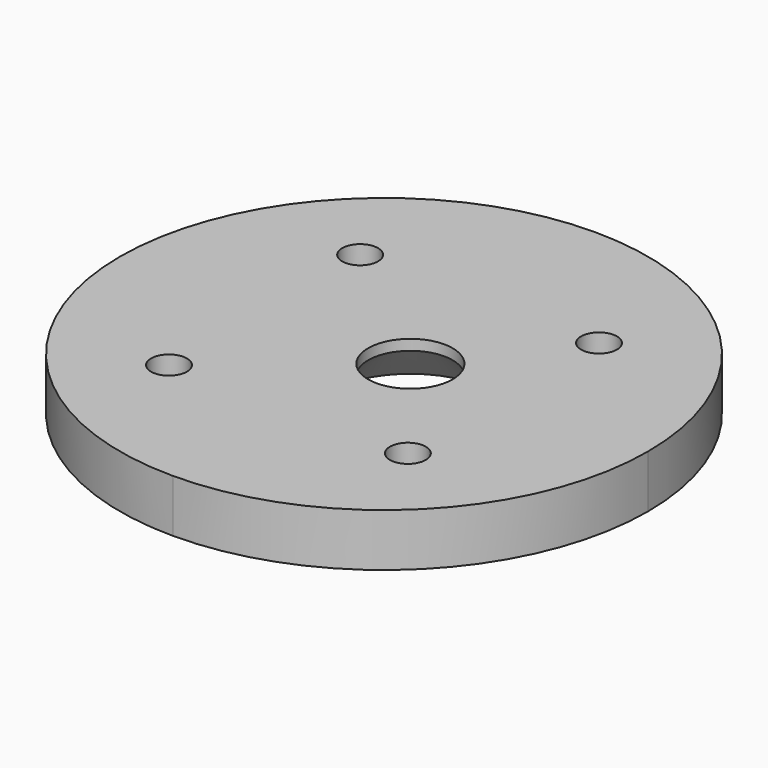
from build123d import *

# Parameters (mm, degrees)
SKETCH_R             = 1.7
PAD_DEPTH            = 5
SKETCH_MIRRORED_2_R  = 1.7
PAD_MIRRORED_2_DEPTH = 5


with BuildPart() as part:
    # Sketch → Pad (new body)
    with BuildSketch(Plane.XY):
        with BuildLine():
            ThreePointArc((25, 0), (17.67767, 17.67767), (0, 25))
            Line((0, 25), (0, 0))
            Line((0, 0), (25, 0))
        make_face()
        with Locations((11.313708, 11.313708)):
            Circle(SKETCH_R, mode=Mode.SUBTRACT)
    pad = extrude(amount=PAD_DEPTH)

    # Sketch Mirrored 2 → Pad Mirrored 2 (add)
    with BuildSketch(Plane(origin=(0, 0, 0), x_dir=(-1, 0, 0), z_dir=(0, 0, -1))):
        with BuildLine():
            ThreePointArc((25, 0), (17.67767, 17.67767), (0, 25))
            Line((0, 25), (0, 0))
            Line((0, 0), (25, 0))
        make_face()
        with Locations((11.313708, 11.313708)):
            Circle(SKETCH_MIRRORED_2_R, mode=Mode.SUBTRACT)
    pad_mirrored_2 = extrude(amount=-PAD_MIRRORED_2_DEPTH)

    # Mirrored001: Pad, Pad Mirrored 2 across Sketch H_Axis
    add(pad.mirror(Plane.ZX))
    add(pad_mirrored_2.mirror(Plane.ZX))

    # Sketch001 → Groove (revolve, cut)
    with BuildSketch(Plane(origin=(2.5, 0, 0), x_dir=(1, 0, 0), z_dir=(0, -1, 0))):
        Polygon((0, 5), (4, 5), (4, 4), (8, 0), (0, 0), align=None)
    revolve(axis=Axis((2.5, 0, 0), (0, 0, 1)), mode=Mode.SUBTRACT)


solid = part.part
